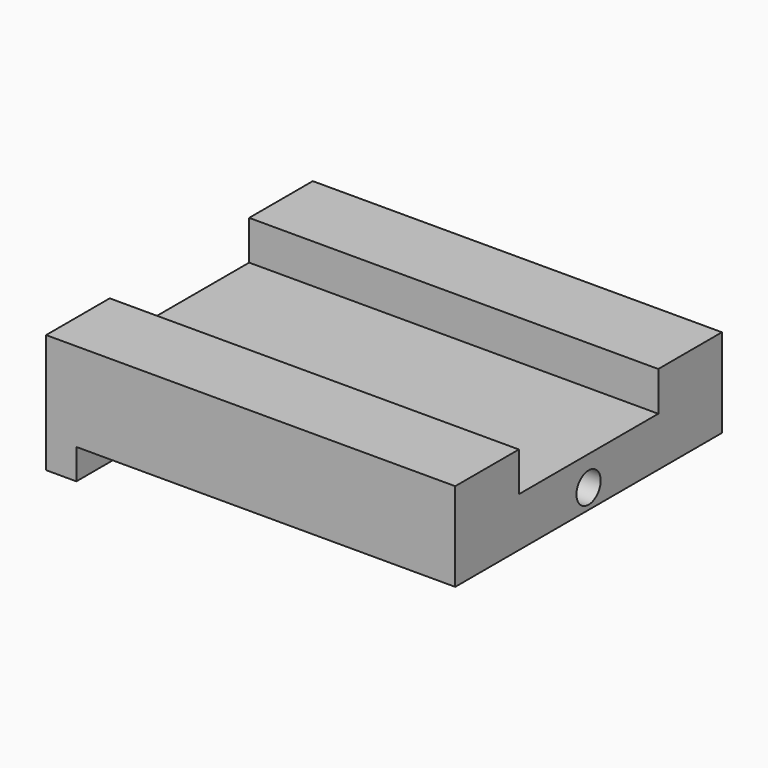
from build123d import *

# Parameters (mm, degrees)
F1_DEPTH  = 220
F2_R      = 8
F3_DEPTH  = 270.001
F2_R_2    = 10
F4_DEPTH  = 35
F6_DEPTH  = 25
F8_DEPTH  = 10
F9_W      = 115
F9_H      = 26
F10_DEPTH = 270.001


with BuildPart() as f1:
    # F0 (on Front) → F1 (new body)
    with BuildSketch(Plane.XZ):
        Polygon((0, 78.5), (0, 0), (20, 0), (20, 20), (270, 20), (270, 78.5), align=None)
    extrude(amount=F1_DEPTH)

    # F2 (on face) → F3 (cut, through all)
    with BuildSketch(Plane.YZ.offset(270)):
        with Locations((-110, 33)):
            Circle(F2_R)
    extrude(amount=-F3_DEPTH, mode=Mode.SUBTRACT)

    # F2 (on face) → F4 (cut)
    with BuildSketch(Plane.YZ.offset(270)):
        with Locations((-110, 33)):
            Circle(F2_R_2)
        with Locations((-110, 33)):
            Circle(F2_R, mode=Mode.SUBTRACT)
    extrude(amount=-F4_DEPTH, mode=Mode.SUBTRACT)

    # F5 (on face) → F6 (cut)
    with BuildSketch(Plane(origin=(0, 0, 20), x_dir=(1, 0, 0), z_dir=(0, 0, -1))):
        with BuildLine():
            Line((165, 120), (85, 120))
            ThreePointArc((85, 120), (75, 110), (85, 100))
            Line((85, 100), (165, 100))
            ThreePointArc((165, 100), (175, 110), (165, 120))
        make_face()
    extrude(amount=-F6_DEPTH, mode=Mode.SUBTRACT)

    # F7 (on face) → F8 (cut)
    with BuildSketch(Plane(origin=(0, 0, 0), x_dir=(0, -1, 0), z_dir=(-1, 0, 0))):
        with BuildLine():
            Line((117, 42), (101, 42))
            ThreePointArc((101, 42), (92, 33), (101, 24))
            Line((101, 24), (117, 24))
            ThreePointArc((117, 24), (126, 33), (117, 42))
        make_face()
    extrude(amount=-F8_DEPTH, mode=Mode.SUBTRACT)

    # F9 (on face) → F10 (cut, through all)
    with BuildSketch(Plane(origin=(0, 0, 0), x_dir=(0, -1, 0), z_dir=(-1, 0, 0))):
        with Locations((110, 65.5)):
            Rectangle(F9_W, F9_H)
    extrude(amount=-F10_DEPTH, mode=Mode.SUBTRACT)


solid = f1.part
